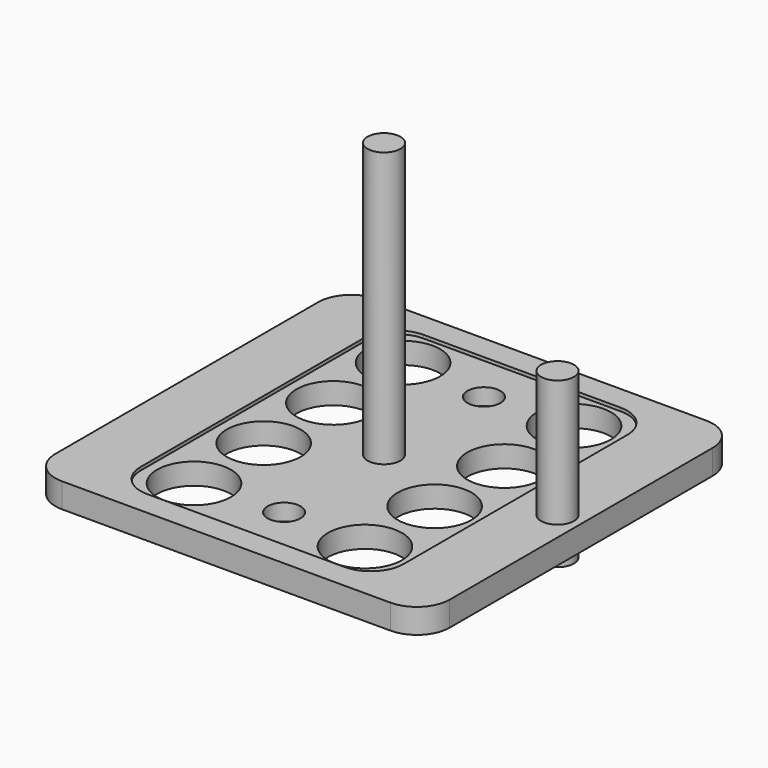
from build123d import *

# Parameters (mm, degrees)
F1_DEPTH  = 19.05
F2_R      = 28.575
F3_DEPTH  = 19.051
F4_R      = 12.7
F5_DEPTH  = 15.24
F6_R      = 28.575
F6_R_2    = 12.7
F7_DEPTH  = 2.54
F8_R      = 12.7
F9_DEPTH  = 127
F11_R     = 12.7
F12_DEPTH = 228.6


with BuildPart() as f1:
    # F0 (on Top) → F1 (new body)
    with BuildSketch(Plane.XY):
        with BuildLine():
            ThreePointArc((152.4, 127), (144.960512, 144.960512), (127, 152.4))
            Line((127, 152.4), (-127, 152.4))
            ThreePointArc((-127, 152.4), (-144.960512, 144.960512), (-152.4, 127))
            Line((-152.4, 127), (-152.4, -127))
            ThreePointArc((-152.4, -127), (-144.960512, -144.960512), (-127, -152.4))
            Line((-127, -152.4), (127, -152.4))
            ThreePointArc((127, -152.4), (144.960512, -144.960512), (152.4, -127))
            Line((152.4, -127), (152.4, 127))
        make_face()
    extrude(amount=F1_DEPTH)

    # F2 (on face) → F3 (cut, through all)
    with BuildSketch(Plane.XY.offset(19.05)):
        with Locations((-66.04, 100.965)):
            Circle(F2_R)
        with Locations((-66.04, 33.655)):
            Circle(F2_R)
        with Locations((-66.04, -33.655)):
            Circle(F2_R)
        with Locations((-66.04, -100.965)):
            Circle(F2_R)
        with Locations((66.04, -100.965)):
            Circle(F2_R)
        with Locations((66.04, -33.655)):
            Circle(F2_R)
        with Locations((66.04, 33.655)):
            Circle(F2_R)
        with Locations((66.04, 100.965)):
            Circle(F2_R)
    extrude(amount=-F3_DEPTH, mode=Mode.SUBTRACT)

    # F4 (on face) → F5 (cut)
    with BuildSketch(Plane.XY.offset(19.05)):
        with Locations((0, 96.52)):
            Circle(F4_R)
        with Locations((0, -96.52)):
            Circle(F4_R)
    extrude(amount=-F5_DEPTH, mode=Mode.SUBTRACT)

    # F6 (on face) → F7 (cut)
    with BuildSketch(Plane.XY.offset(19.05)):
        with BuildLine():
            ThreePointArc((101.6, 107.95), (94.160512, 125.910512), (76.2, 133.35))
            Line((76.2, 133.35), (-76.2, 133.35))
            ThreePointArc((-76.2, 133.35), (-94.160512, 125.910512), (-101.6, 107.95))
            Line((-101.6, 107.95), (-101.6, -107.95))
            ThreePointArc((-101.6, -107.95), (-94.160512, -125.910512), (-76.2, -133.35))
            Line((-76.2, -133.35), (76.2, -133.35))
            ThreePointArc((76.2, -133.35), (94.160512, -125.910512), (101.6, -107.95))
            Line((101.6, -107.95), (101.6, 107.95))
        make_face()
        with Locations((-66.04, -100.965)):
            Circle(F6_R, mode=Mode.SUBTRACT)
        with Locations((-66.04, -33.655)):
            Circle(F6_R, mode=Mode.SUBTRACT)
        with Locations((0, -96.52)):
            Circle(F6_R_2, mode=Mode.SUBTRACT)
        with Locations((66.04, -100.965)):
            Circle(F6_R, mode=Mode.SUBTRACT)
        with Locations((66.04, -33.655)):
            Circle(F6_R, mode=Mode.SUBTRACT)
        with Locations((-66.04, 33.655)):
            Circle(F6_R, mode=Mode.SUBTRACT)
        with Locations((-66.04, 100.965)):
            Circle(F6_R, mode=Mode.SUBTRACT)
        with Locations((66.04, 33.655)):
            Circle(F6_R, mode=Mode.SUBTRACT)
        with Locations((0, 96.52)):
            Circle(F6_R_2, mode=Mode.SUBTRACT)
        with Locations((66.04, 100.965)):
            Circle(F6_R, mode=Mode.SUBTRACT)
    extrude(amount=-F7_DEPTH, mode=Mode.SUBTRACT)


with BuildPart() as f9:
    # F8 (on Top) → F9 (new body)
    with BuildSketch(Plane.XY):
        Circle(F8_R)
    extrude(amount=F9_DEPTH)


with BuildPart() as f10_1:
    # F10: copy of F9
    add(f9.part.moved(Location((134.06767, 0, -9.88265))))


with BuildPart() as f12:
    # F11 (on Top) → F12 (new body)
    with BuildSketch(Plane.XY):
        Circle(F11_R)
    extrude(amount=F12_DEPTH)


solid = Compound([f1.part, f9.part, f10_1.part, f12.part])
